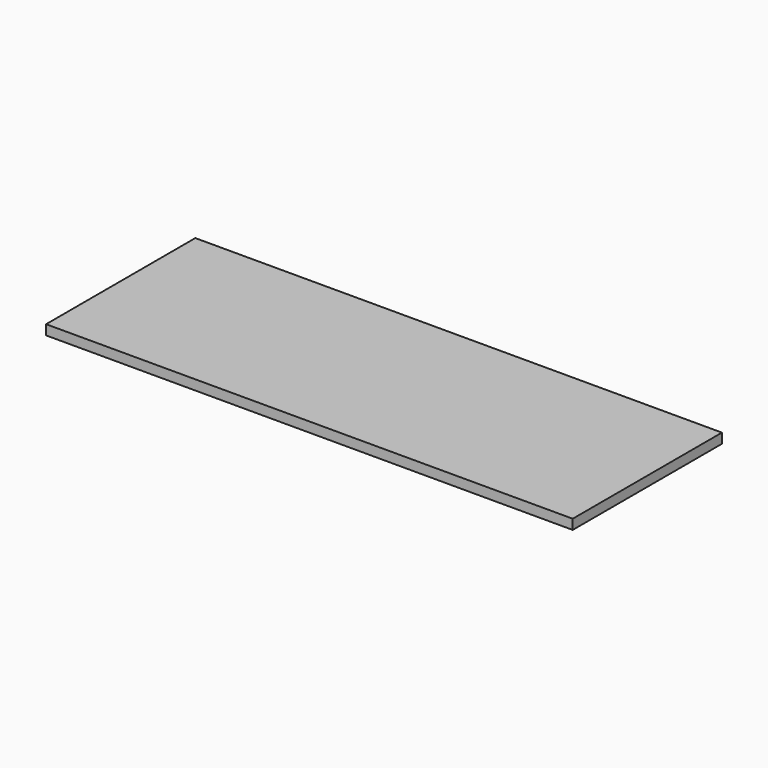
from build123d import *

# Parameters (mm, degrees)
SKETCH_W      = 960
SKETCH_H      = 340
EXTRUDE_DEPTH = 18


with BuildPart() as part:
    # Sketch → Extrude (new body)
    with BuildSketch(Plane.XY):
        Rectangle(SKETCH_W, SKETCH_H)
    extrude(amount=EXTRUDE_DEPTH)


solid = part.part
